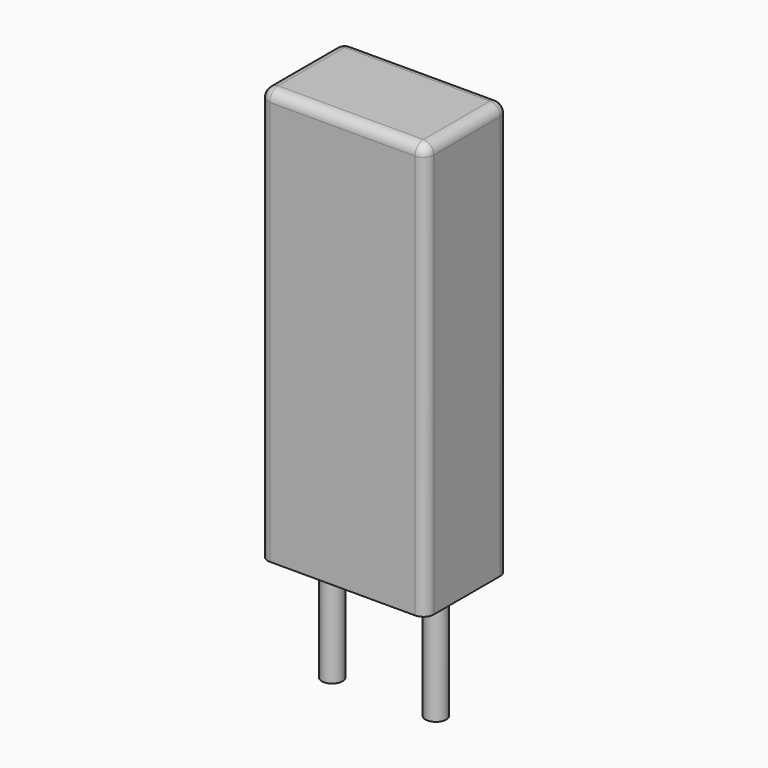
from build123d import *

# Parameters (mm, degrees)
SKETCH_W     = 4
SKETCH_H     = 2.5
PAD_DEPTH    = 10
FILLET_R     = 0.25
SKETCH001_R  = 0.25
PAD001_DEPTH = 3.2


with BuildPart() as fillet_body:
    # Sketch → Pad (new body)
    with BuildSketch(Plane.XY.offset(0.1)):
        with Locations((1.25, 0)):
            Rectangle(SKETCH_W, SKETCH_H)
    extrude(amount=PAD_DEPTH)

    # Fillet
    fillet_edges = [fillet_body.edges().sort_by_distance(p)[0] for p in [
        (-0.75, 0, 10.1),
        (-0.75, -1.25, 5.1),
        (1.25, -1.25, 10.1),
        (3.25, -1.25, 5.1),
        (3.25, 0, 10.1),
        (3.25, 1.25, 5.1),
        (1.25, 1.25, 10.1),
        (-0.75, 1.25, 5.1),
    ]]
    fillet(fillet_edges, radius=FILLET_R)


with BuildPart() as pad001:
    # Sketch001 → Pad001 (new body)
    with BuildSketch(Plane.XY.offset(0.5)):
        Circle(SKETCH001_R)
        with Locations((2.5, 0)):
            Circle(SKETCH001_R)
    extrude(amount=-PAD001_DEPTH)


solid = Compound([fillet_body.part, pad001.part])
